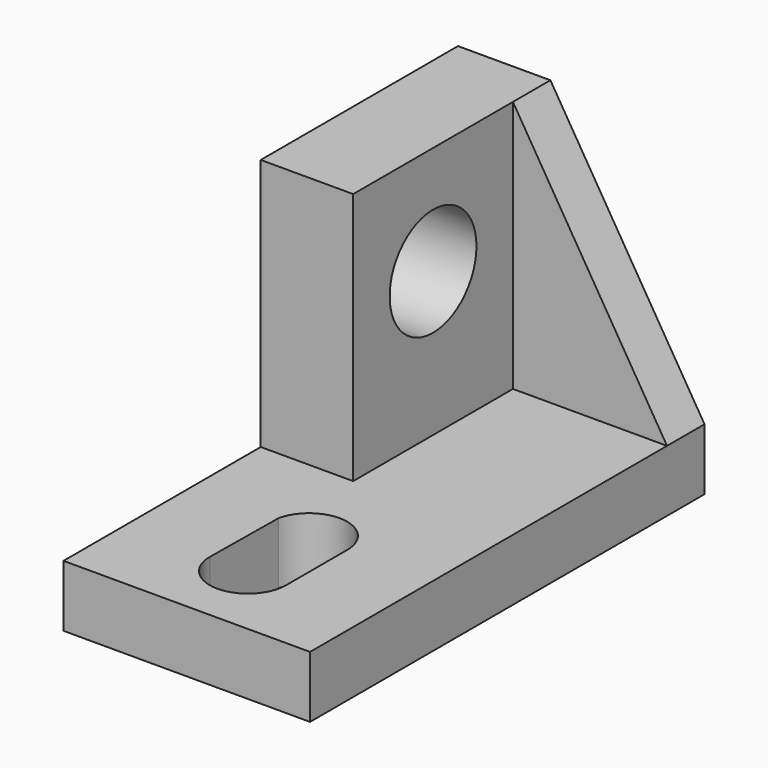
from build123d import *

# Parameters (mm, degrees)
F0_W      = 101.6
F0_H      = 64.77
F1_DEPTH  = 50.8
F3_DEPTH  = 52.07
F4_R      = 11.176
F5_DEPTH  = 19.051
F6_W      = 31.75
F6_H      = 9.652
F7_DEPTH  = 52.07
F9_DEPTH  = 9.653
F11_DEPTH = 12.701


with BuildPart() as f1:
    # F0 (on Right) → F1 (new body)
    with BuildSketch(Plane.YZ):
        Rectangle(F0_W, F0_H)
    extrude(amount=F1_DEPTH)

    # F2 (on face) → F3 (cut)
    with BuildSketch(Plane.XY.offset(32.385)):
        Polygon((19.05, 0), (0, 0), (0, -50.8), (50.8, -50.8), (50.8, 50.8), (19.05, 50.8), align=None)
    extrude(amount=-F3_DEPTH, mode=Mode.SUBTRACT)

    # F4 (on face) → F5 (cut, through all)
    with BuildSketch(Plane.YZ.offset(19.05)):
        with Locations((20.574, 10.033)):
            Circle(F4_R)
    extrude(amount=-F5_DEPTH, mode=Mode.SUBTRACT)

    # F6 (on face) → F7 (join)
    with BuildSketch(Plane.XY.offset(-19.685)):
        with Locations((34.925, 45.974)):
            Rectangle(F6_W, F6_H)
    extrude(amount=F7_DEPTH)

    # F8 (on face) → F9 (cut, through all)
    with BuildSketch(Plane.XZ.offset(-41.148)):
        Polygon((50.8, 32.385), (19.05, 32.385), (50.8, -19.685), align=None)
    extrude(amount=-F9_DEPTH, mode=Mode.SUBTRACT)

    # F10 (on face) → F11 (cut, through all)
    with BuildSketch(Plane.XY.offset(-19.685)):
        with BuildLine():
            Line((17.727991, -17.53195), (17.526526, -34.960989))
            ThreePointArc((17.526526, -34.960989), (19.800156, -40.587488), (25.4, -42.926))
            ThreePointArc((25.4, -42.926), (30.967778, -40.619739), (33.274, -35.051945))
            Line((33.274, -35.051945), (33.27389, -19.345712))
            ThreePointArc((33.27389, -19.345712), (26.312481, -11.48305), (17.727991, -17.53195))
        make_face()
    extrude(amount=-F11_DEPTH, mode=Mode.SUBTRACT)


solid = f1.part
